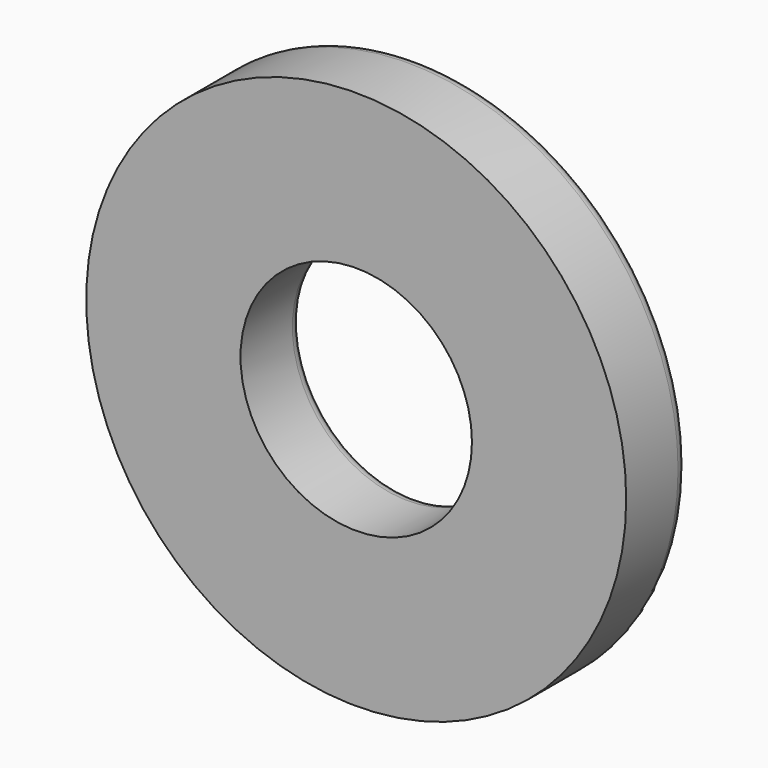
from build123d import *

# Parameters (mm, degrees)
F0_R     = 5.55625
F1_DEPTH = 0.79375
F2_R     = 2.38125
F3_DEPTH = 25.4
F4_R     = 0.254
F5_R     = 0.254


with BuildPart() as f1:
    # F0 (on Front) → F1 (new body, symmetric)
    with BuildSketch(Plane.XZ):
        Circle(F0_R)
    extrude(amount=F1_DEPTH, both=True)

    # F2 (on Front) → F3 (cut, symmetric)
    with BuildSketch(Plane.XZ):
        Circle(F2_R)
    extrude(amount=F3_DEPTH, both=True, mode=Mode.SUBTRACT)

    # F4
    f4_edges = [f1.edges().sort_by_distance(p)[0] for p in [
        (-2.38125, 0.79375, 0),
    ]]
    fillet(f4_edges, radius=F4_R)

    # F5
    f5_edges = [f1.edges().sort_by_distance(p)[0] for p in [
        (-5.55625, 0.79375, 0),
    ]]
    fillet(f5_edges, radius=F5_R)


solid = f1.part
